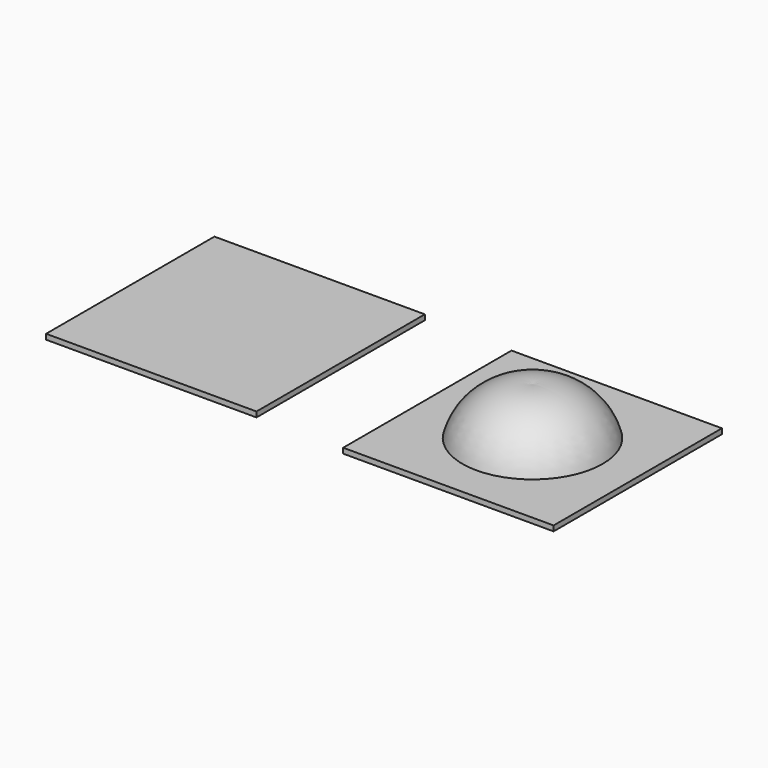
from build123d import *

# Parameters (mm, degrees)
F2_W     = 76.2
F2_H     = 76.2
F4_DEPTH = 1.905
F5_W     = 76.2
F5_H     = 76.2
F6_DEPTH = 1.905


with BuildPart() as f1:
    # F0 (on Front) → F1 (revolve)
    with BuildSketch(Plane.XZ):
        with BuildLine():
            Line((0, 17.145), (0, 0))
            Line((0, 0), (25.4, 0))
            ThreePointArc((25.4, 0), (15.9343685097, 13.3641570514), (0, 17.145))
        make_face()
    revolve(axis=Axis((0, 0, 0.8835829794), (0, 0, -1)))

    # F2 (on Top) → F4 (join)
    with BuildSketch(Plane.XY):
        Rectangle(F2_W, F2_H)
    extrude(amount=-F4_DEPTH)


with BuildPart() as f6:
    # F5 (on Top) → F6 (new body)
    with BuildSketch(Plane.XY):
        with Locations((-106.9190986454, -0.8413503857)):
            Rectangle(F5_W, F5_H)
    extrude(amount=F6_DEPTH)


solid = Compound([f1.part, f6.part])
